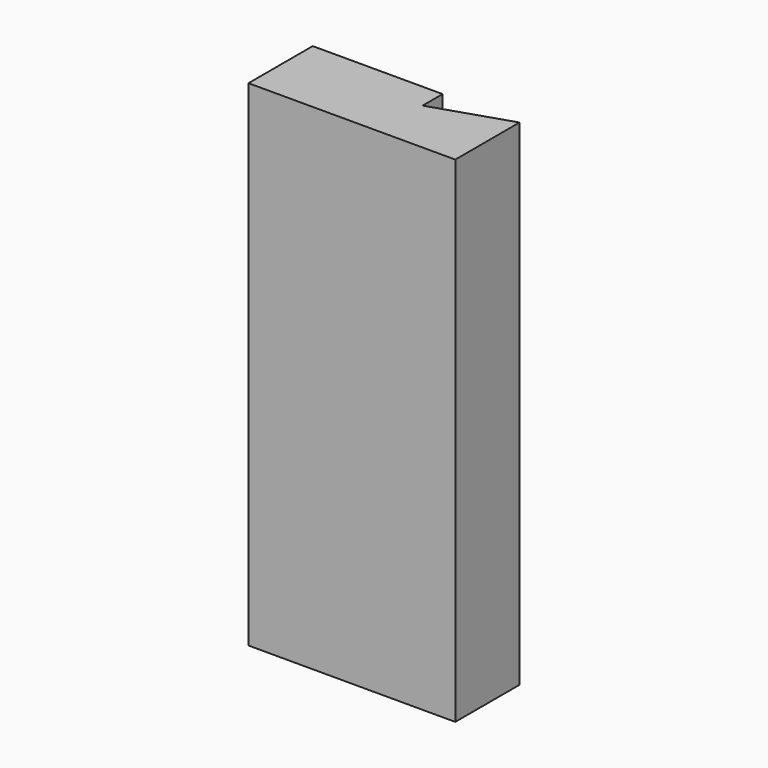
from build123d import *

# Parameters (mm, degrees)
F0_W     = 64.361156
F0_H     = 154.062912
F1_DEPTH = 25
F3_DEPTH = 154.062912


with BuildPart() as f1:
    # F0 (on Front) → F1 (new body)
    with BuildSketch(Plane.XZ):
        Rectangle(F0_W, F0_H)
    extrude(amount=-F1_DEPTH)

    # F2 (on face) → F3 (cut, through all)
    with BuildSketch(Plane.XY.offset(77.031456)):
        Polygon((8.239105, 17.220952), (32.180578, 25), (8.239105, 25), align=None)
        Polygon((8.239105, 17.220952), (32.180578, 25), (8.239105, 25), align=None)
    extrude(amount=-F3_DEPTH, mode=Mode.SUBTRACT)


solid = f1.part
